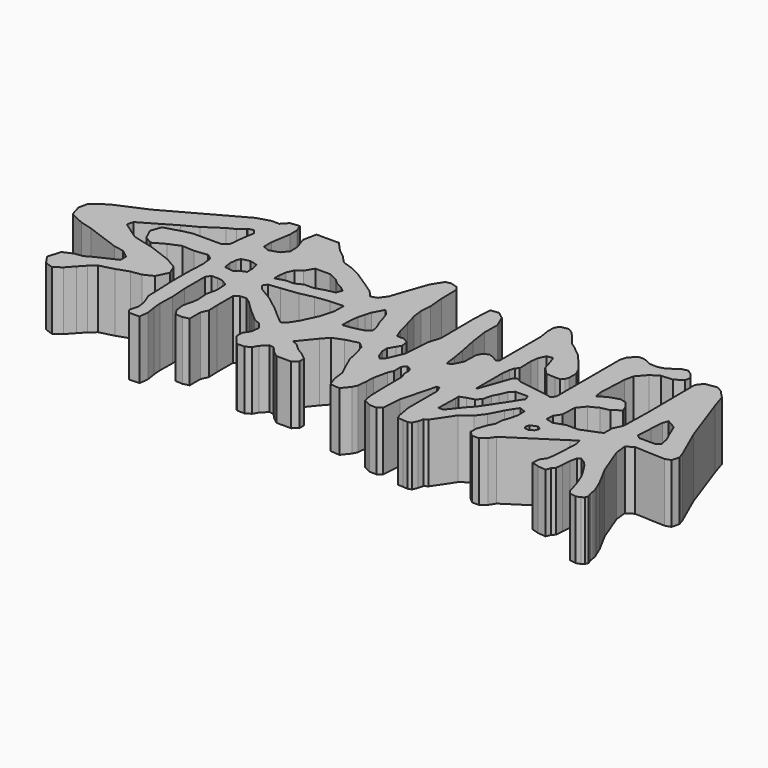
from build123d import *

# Parameters (mm, degrees)
F1_DEPTH = 6.35


with BuildPart() as f1:
    # F0 (on Top) → F1 (new body)
    with BuildSketch(Plane.XY):
        Polygon((-28.975278, -2.310246), (-30.033255, -2.757852), (-30.440168, -4.182052), (-29.789107, -5.117955), (-29.761832, -5.123609), (-28.934585, -5.402796), (-28.120756, -4.833116), (-27.388312, -4.019287), (-26.737249, -3.327532), (-26.086185, -2.757852), (-24.53991, -2.350937), (-23.237785, -1.903332), (-22.139115, -1.740566), (-21.12183, -1.252269), (-20.511458, 0), (-20.918373, 1.026452), (-22.139115, 1.758897), (-24.621293, 2.694801), (-26.900014, 3.264481), (-28.859079, 4.616651), (-28.69278, 5.305596), (-26.818631, 6.397721), (-25.231665, 7.326243), (-23.766773, 8.106762), (-23.752943, 8.114147), (-21.935659, 9.327505), (-21.12183, 9.734419), (-20.418407, 10.314487), (-20.418407, 10.359854), (-19.85131, 10.518642), (-19.465683, 10.019596), (-19.656938, 8.879899), (-19.819703, 7.292933), (-20.470766, 6.804636), (-21.447361, 6.804636), (-22.261189, 6.804636), (-23.400551, 6.804636), (-24.377145, 6.601179), (-25.231665, 6.333937), (-26.208259, 6.07219), (-26.615174, 4.93283), (-26.086185, 3.793469), (-25.231665, 3.264481), (-24.010923, 3.956235), (-22.749487, 4.485224), (-21.447361, 4.403841), (-20.023162, 4.566607), (-19.451533, 4.152032), (-19.328868, 2.966287), (-19.410644, 1.044561), (-19.410644, -1.122492), (-19.328868, -2.962441), (-19.287981, -4.434401), (-18.838216, -5.579259), (-18.715553, -6.437903), (-18.960878, -7.419209), (-18.633777, -7.868975), (-17.529806, -7.828088), (-17.407143, -6.846781), (-17.570695, -5.824585), (-17.652471, -4.925054), (-17.611582, -3.289544), (-17.734244, -1.531369), (-17.734244, 0), (-17.734244, 1.249), (-17.407143, 1.739653), (-16.752938, 1.739653), (-16.18051, 1.657877), (-15.525612, 1.249), (-15.444529, 0), (-15.689857, -1.040716), (-15.608081, -2.390013), (-15.689857, -2.962441), (-15.935183, -3.943748), (-15.81252, -4.965943), (-15.403642, -5.620147), (-14.626774, -5.661035), (-13.97257, -5.497484), (-13.97257, -4.965943), (-13.97257, -4.025524), (-13.645467, -3.330431), (-13.686355, -2.185574), (-13.686355, -0.95894), (-13.686355, 0), (-13.195702, 0.349469), (-12.541497, 0.390356), (-11.969068, 0), (-11.355752, -0.631838), (-10.783322, -1.163379), (-10.251782, -1.613144), (-9.597577, -2.185574), (-8.902485, -2.512676), (-8.330056, -3.207768), (-8.452719, -4.066412), (-8.902485, -4.761504), (-8.902485, -5.497484), (-8.452719, -6.069913), (-8.002954, -6.601454), (-7.185198, -6.601454), (-6.612769, -6.274351), (-6.299826, -5.732479), (-5.67235, -5.088606), (-5.181697, -5.170382), (-4.600263, -5.795425), (-3.995952, -6.274351), (-3.341746, -6.274351), (-2.401328, -6.274351), (-1.869787, -5.824585), (-1.869787, -5.170382), (-2.605767, -4.597953), (-3.341746, -4.148187), (-3.995952, -3.53487), (-4.56838, -3.289544), (-3.137307, -1.531369), (-2.483104, -0.795389), (-1.379133, -0.345623), (0, 0), (0.624367, -0.550062), (0.923949, -1.650914), (1.190195, -2.826833), (1.689407, -3.980566), (2.255179, -5.170382), (2.410489, -6.41006), (2.782103, -7.438692), (3.816769, -7.535692), (4.506546, -6.67347), (4.745184, -6.172544), (4.839662, -5.170382), (4.882094, -4.245838), (5.21094, -2.739513), (5.46553, -2.209117), (5.454922, -1.243796), (5.847415, -0.840695), (6.186869, -0.999814), (6.430851, -1.318051), (6.430851, -2.081822), (6.653617, -2.537962), (6.674833, -3.916992), (6.674833, -4.861097), (6.727461, -6.972619), (6.942406, -7.951817), (7.718599, -8.333942), (8.494792, -8.357825), (8.936625, -8.011524), (9.091863, -5.921774), (10.071061, -2.196048), (10.345713, -2.184107), (10.608424, -2.801154), (10.608424, -6.733791), (10.73978, -7.450277), (10.895019, -8.310059), (11.074141, -8.704127), (11.646428, -8.72881), (12.196635, -8.775775), (12.542936, -8.632478), (12.781765, -8.083173), (12.925062, -7.521925), (13.295246, -7.318921), (14.732057, -5.170382), (15.814735, -4.369388), (16.518474, -3.423693), (17.249281, -2.016213), (17.682351, -1.318051), (18.007156, -0.840695), (18.65676, -1.095938), (18.683828, -1.935012), (18.49436, -2.801154), (18.22369, -3.531961), (18.169556, -4.369388), (17.765619, -5.170382), (17.465817, -6.103318), (17.438749, -6.834125), (17.980088, -7.318921), (18.737962, -7.318921), (19.306367, -6.834125), (19.739438, -6.184519), (24.963353, -2.801154), (25.61296, -2.341016), (25.802428, -3.125957), (25.657218, -5.782115), (25.526799, -6.579112), (25.121056, -7.158746), (25.063094, -7.984724), (25.802428, -8.202086), (26.700558, -8.303522), (26.88894, -7.781852), (27.178757, -7.506526), (27.265701, -6.695039), (27.323665, -5.796606), (27.483065, -5.0141), (27.801864, -4.84021), (28.338024, -5.170382), (28.777696, -5.643181), (29.276505, -6.412271), (29.828757, -7.356444), (30.274121, -8.478763), (30.54134, -9.369493), (30.701671, -10.010817), (31.00452, -10.384923), (31.734917, -10.509625), (32.162469, -10.367109), (32.447502, -10.171148), (32.572202, -9.814857), (32.394055, -9.369493), (32.340612, -8.941942), (32.251541, -8.532207), (32.109022, -8.193729), (31.752732, -7.33863), (30.594783, -5.170382), (29.419022, -2.118957), (29.276505, -0.818493), (30.024717, -0.355314), (33.284787, -0.49783), (33.920355, -0.302304), (34.113545, 0.518752), (33.920355, 1.146619), (32.423131, 4.527442), (30.540593, 9.812282), (30.065587, 11.312303), (29.276505, 12.137314), (28.665567, 12.51232), (27.36555, 12.312316), (26.865544, 11.637308), (26.915545, 5.312223), (26.840543, 2.062179), (26.390538, 1.146619), (26.365537, 0), (24.277557, -0.840695), (22.955894, -0.840695), (21.823041, -1.243796), (20.973401, -1.015091), (21.036338, -0.228388), (21.50836, 0.463911), (21.571295, 2.062179), (22.263596, 2.909477), (23.239108, 3.412197), (24.183152, 3.596613), (25.032792, 4.258296), (24.812514, 4.830562), (24.277557, 5.56175), (23.585258, 5.687622), (22.578277, 5.367845), (21.634232, 4.830562), (21.50836, 5.687622), (21.64815, 8.707039), (21.857569, 9.66439), (22.725169, 10.651657), (23.585258, 11.175209), (24.812514, 11.279919), (25.672013, 11.818429), (25.802428, 12.431731), (25.283089, 13.015117), (24.812514, 13.359165), (24.183152, 13.224537), (23.585258, 12.790738), (22.889713, 12.386855), (22.306329, 12.252228), (21.50836, 12.282145), (20.945095, 12.5514), (20.470245, 12.700986), (20.03262, 12.686027), (19.658655, 12.401814), (19.254774, 11.953056), (19.060312, 11.324795), (19.060312, 10.442237), (19.060312, 2.657221), (18.683828, 2.316016), (18.261157, 2.429751), (15.076577, 2.909477), (14.46999, 3.187984), (14.109829, 2.909477), (13.001211, -0.193788), (12.863973, -0.448658), (12.863973, 3.187984), (12.962, 4.011577), (13.118844, 4.527442), (13.412924, 4.830562), (13.376311, 6.392017), (13.478728, 7.182092), (13.829873, 7.942906), (14.46999, 8.045323), (14.912569, 6.757793), (15.056861, 6.216445), (15.814735, 5.426369), (16.814603, 5.367845), (17.355951, 5.367845), (17.619308, 5.675097), (17.765619, 6.01161), (17.765619, 7.021151), (17.472997, 7.621023), (17.351026, 7.866277), (15.805062, 9.71326), (14.576055, 10.7228), (14.093231, 11.044683), (12.776439, 12.639465), (12.191199, 13.005241), (11.532802, 12.888192), (11.22555, 12.639465), (11.049978, 12.317582), (11.049978, 11.5714), (11.22555, 10.400918), (11.22555, 5.806776), (11.22555, 4.785728), (10.897338, 4.656123), (10.522926, 4.929732), (9.918107, 5.17454), (9.399691, 4.972933), (9.068481, 4.425716), (9.025279, 2.856067), (8.679668, 2.150445), (8.478062, 1.776033), (8.046049, 1.68963), (7.887643, 2.928069), (7.657236, 4.310512), (7.278189, 6.167055), (7.016139, 8.066919), (7.037977, 9.770244), (6.492039, 11.058657), (5.749563, 11.626433), (4.876063, 11.517245), (4.766875, 9.442681), (4.81055, 5.009667), (4.570337, 4.179841), (4.417475, 3.721253), (4.308287, 2.105277), (4.220937, 0.882376), (3.478462, -0.842787), (3.129062, -1.214025), (2.735986, -0.842787), (2.430261, 0), (2.408423, 0.642163), (2.823337, 1.340963), (3.107224, 1.821389), (3.019874, 2.563864), (2.452099, 2.928069), (1.665948, 2.928069), (1.316548, 3.83044), (0.94531, 5.22804), (0.530397, 6.691154), (0.399372, 7.783029), (0.486722, 8.940417), (0.33386, 10.600069), (0.295113, 12.660458), (0, 13.089545), (-0.798222, 13.314082), (-1.339303, 13.173214), (-2.078237, 11.972449), (-2.892066, 9.653036), (-3.380362, 8.188145), (-3.950043, 7.374316), (-4.641797, 7.170859), (-5.252169, 7.903305), (-6.472912, 8.717134), (-7.897113, 9.653036), (-8.995781, 10.222717), (-10.216524, 10.629632), (-11.030353, 11.484152), (-11.844181, 12.135214), (-12.797662, 13.173214), (-15.202667, 13.173214), (-15.205676, 13.173214), (-15.506411, 11.7283), (-15.058805, 10.426174), (-15.018114, 9.408888), (-15.587795, 8.717134), (-16.605081, 8.391602), (-17.296834, 8.676442), (-17.296834, 9.734419), (-16.971303, 11.768991), (-16.971303, 12.745586), (-17.296834, 13.518723), (-18.273428, 13.396649), (-18.8838, 12.745586), (-19.73832, 12.745586), (-21.12183, 12.338672), (-29.015969, 7.984688), (-30.440168, 7.374316), (-32.108519, 6.64187), (-33.04442, 6.07219), (-33.776868, 5.421127), (-33.980325, 4.485224), (-33.614103, 3.264481), (-32.108519, 2.532035), (-30.765701, 2.165812), (-27.184853, 0.863686), (-26.086185, 0.660229), (-25.231665, 0), (-25.231665, -0.763972), (-27.306927, -1.740566), (-28.120756, -2.188172), align=None)
        Polygon((12.647904, -2.909422), (12.647904, -2.449284), (13.29751, -2.205682), (14.055384, -1.989146), (14.488455, -1.556076), (14.732057, -0.608733), (15.056861, 0), (15.381663, 0.77168), (15.814735, 1.231818), (16.545542, 1.231818), (17.141012, 1.231818), (17.357549, 0.690479), (17.113946, 0.365676), (16.680876, -0.338064), (15.787667, -1.69141), (14.948593, -2.936488), (14.298987, -3.640228), (13.405778, -4.777039), (13.104717, -5.098796), (12.59377, -5.128909), align=None, mode=Mode.SUBTRACT)
        Polygon((20.470245, -3.207158), (20.578513, -2.801154), (21.282252, -2.530485), (21.688256, -2.801154), (21.498788, -3.261292), (21.011584, -3.531961), (20.578513, -3.477827), align=None, mode=Mode.SUBTRACT)
        Polygon((-11.112513, 1.641766), (-12.619424, 2.538283), (-13.00495, 3.034228), (-12.714799, 3.472949), (-11.474934, 3.625548), (-9.624677, 3.854445), (-8.21314, 4.159642), (-6.706228, 4.350391), (-5.256542, 4.42669), (-5.275617, 3.167752), (-5.676188, 1.718065), (-6.477331, 0), (-7.1068, -0.95241), (-7.58367, -1.238533), (-8.308514, -0.647213), (-9.548377, 0.440052), align=None, mode=Mode.SUBTRACT)
        Polygon((-2.509804, 1.700982), (-3.189371, 1.629448), (-3.189371, 2.541498), (-3.064187, 3.596613), (-2.86747, 4.258296), (-2.670754, 4.937862), (-2.080605, 6.06451), (-1.526222, 5.474361), (-1.293739, 4.830562), (-1.061256, 4.025813), (-0.685706, 3.131647), (-0.54264, 2.434198), (-1.132789, 2.022882), (-1.830238, 1.844048), align=None, mode=Mode.SUBTRACT)
        Polygon((-16.522797, 3.563979), (-17.519983, 3.730177), (-17.65848, 4.566607), (-17.575381, 5.253654), (-17.407143, 5.696847), (-16.522797, 5.918444), (-15.719509, 5.696847), (-15.525612, 5.004358), (-15.525612, 4.17337), (-16.190402, 3.924074), align=None, mode=Mode.SUBTRACT)
        Polygon((-11.952367, 5.004358), (-13.00495, 4.699662), (-13.00495, 5.392152), (-12.894153, 6.16774), (-12.561757, 6.887929), (-11.952367, 7.326243), (-11.398375, 8.245208), (-9.791799, 8.245208), (-8.850013, 7.802015), (-8.323721, 7.326243), (-7.686631, 6.998728), (-7.07724, 6.527835), (-7.326536, 5.918444), (-8.351421, 5.696847), (-9.293207, 5.392152), (-10.318091, 5.392152), (-11.09368, 5.004358), align=None, mode=Mode.SUBTRACT)
        Polygon((29.276505, 1.146619), (28.86557, 1.462171), (28.965572, 3.137193), (29.065574, 4.527442), (29.276505, 5.11222), (30.291935, 4.527442), (30.765597, 3.412197), (31.240603, 2.362183), (31.415604, 1.462171), (31.015599, 1.146619), (30.291935, 1.146619), align=None, mode=Mode.SUBTRACT)
    extrude(amount=F1_DEPTH)


solid = f1.part
